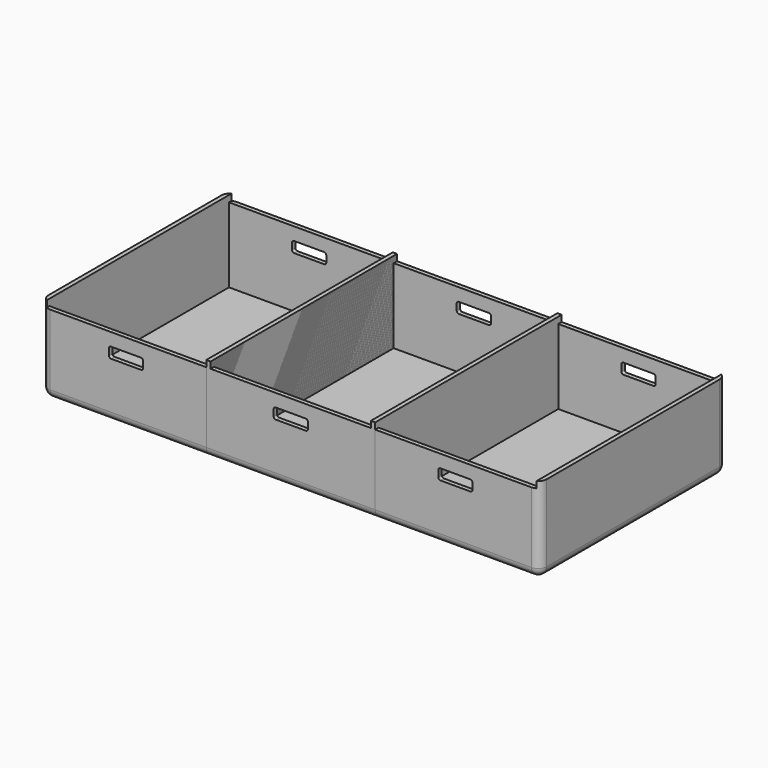
from build123d import *

# Parameters (mm, degrees)
F0_W     = 37.5
F0_H     = 52.5
F1_DEPTH = 1
F0_H_2   = 1
F2_DEPTH = 18.5
F4_DEPTH = 60
F5_DEPTH = 20
F8_R     = 2
F8_2_R   = 2
F9_R     = 2
F9_2_R   = 2
F9_3_R   = 2


with BuildPart() as f1:
    # F0 (on Top) → F1 (new body)
    with BuildSketch(Plane.XY):
        Rectangle(F0_W, F0_H)
    extrude(amount=F1_DEPTH)

    # F0 (on Top) → F2 (join)
    with BuildSketch(Plane.XY):
        with Locations((0, 26.75)):
            Rectangle(F0_W, F0_H_2)
        with Locations((0, -26.75)):
            Rectangle(F0_W, F0_H_2)
    extrude(amount=F2_DEPTH)

    # F3 (on face) → F4 (cut)
    with BuildSketch(Plane.XZ.offset(27.25)):
        with BuildLine():
            ThreePointArc((4, 15), (3.8535533906, 15.3535533906), (3.5, 15.5))
            Line((3.5, 15.5), (-3.5, 15.5))
            ThreePointArc((-3.5, 15.5), (-3.8535533906, 15.3535533906), (-4, 15))
            Line((-4, 15), (-4, 13.5))
            ThreePointArc((-4, 13.5), (-3.8535533906, 13.1464466094), (-3.5, 13))
            Line((-3.5, 13), (3.5, 13))
            ThreePointArc((3.5, 13), (3.8535533906, 13.1464466094), (4, 13.5))
            Line((4, 13.5), (4, 15))
        make_face()
    extrude(amount=-F4_DEPTH, mode=Mode.SUBTRACT)

    # F0 (on Top) → F5 (join)
    with BuildSketch(Plane.XY):
        Polygon((-18.75, -26.25), (-18.75, 26.25), (-18.75, 27.25), (-19.75, 27.25), (-19.75, -27.25), (-18.75, -27.25), align=None)
        Polygon((18.75, 27.25), (18.75, 26.25), (18.75, -26.25), (18.75, -27.25), (19.75, -27.25), (19.75, 27.25), align=None)
    extrude(amount=F5_DEPTH)


with BuildPart() as f6_1:
    # F6: copy of F1
    add(f1.part.moved(Location((38.4999997914, 0, 0))))


with BuildPart() as f7_1:
    # F7: copy of F6_1
    add(f6_1.part.moved(Location((38.5, 0, 0))))

    # F8#2
    f8_2_edges = [f7_1.edges().sort_by_distance(p)[0] for p in [
        (96.75, -27.25, 10),
        (96.75, 27.25, 10),
    ]]
    fillet(f8_2_edges, radius=F8_2_R)

    # F9#3
    f9_3_edges = [f7_1.edges().sort_by_distance(p)[0] for p in [
        (76, -27.25, 0),
    ]]
    fillet(f9_3_edges, radius=F9_3_R)


with BuildPart() as f1_1:
    add(f1.part)

    # F8
    f8_edges = [f1_1.edges().sort_by_distance(p)[0] for p in [
        (-19.75, -27.25, 10),
        (-19.75, 27.25, 10),
    ]]
    fillet(f8_edges, radius=F8_R)

    # F9
    f9_edges = [f1_1.edges().sort_by_distance(p)[0] for p in [
        (1, -27.25, 0),
        (-19.75, 0, 0),
    ]]
    fillet(f9_edges, radius=F9_R)


with BuildPart() as f6_1_1:
    add(f6_1.part)

    # F9#2
    f9_2_edges = [f6_1_1.edges().sort_by_distance(p)[0] for p in [
        (38.5, -27.25, 0),
        (38.5, 27.25, 0),
    ]]
    fillet(f9_2_edges, radius=F9_2_R)


solid = Compound([f7_1.part, f1_1.part, f6_1_1.part])
